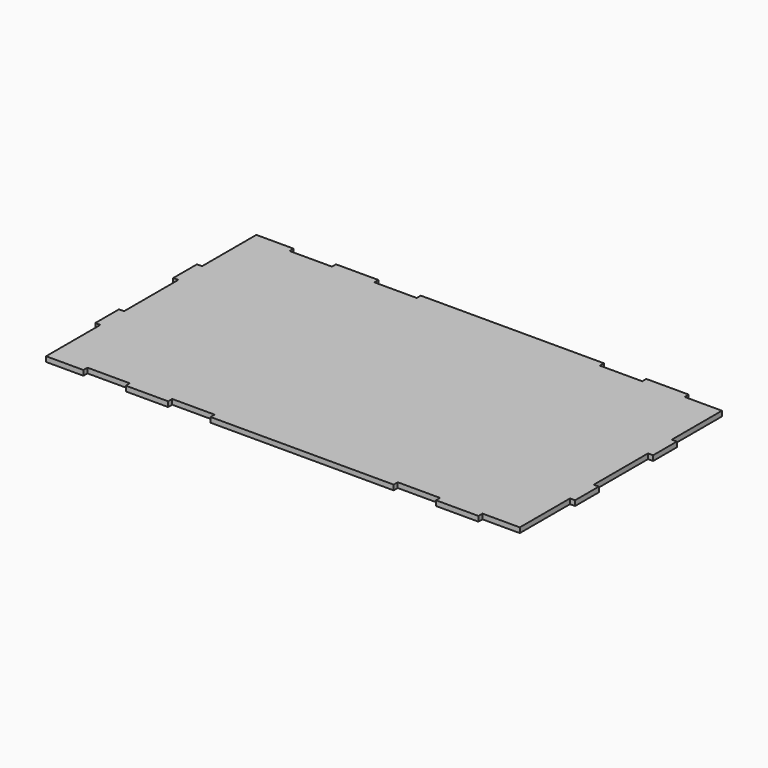
from build123d import *

# Parameters (mm, degrees)
RECTANGLE134_W                               = 40
RECTANGLE134_H                               = 3
EXTRUDE175_DEPTH                             = 3
RECTANGLE135_W                               = 40
RECTANGLE135_H                               = 3
EXTRUDE176_DEPTH                             = 3
RECTANGLE133_W                               = 40
RECTANGLE133_H                               = 3
EXTRUDE174_DEPTH                             = 3
RECTANGLE128_AS_DRAWN_W                      = 25
RECTANGLE128_AS_DRAWN_H                      = 3
EXTRUDE161_DEPTH                             = 3
EXTRUDE161_ONTO_RECTANGLE128_ROLL_ANGLE      = -90
EXTRUDE161_ONTO_RECTANGLE128_PLACEMENT_ANGLE = 180
RECTANGLE129_AS_DRAWN_W                      = 25
RECTANGLE129_AS_DRAWN_H                      = 3
EXTRUDE159_DEPTH                             = 3
EXTRUDE159_ONTO_RECTANGLE129_ROLL_ANGLE      = -90
EXTRUDE159_ONTO_RECTANGLE129_PLACEMENT_ANGLE = 180
RECTANGLE127_AS_DRAWN_W                      = 25
RECTANGLE127_AS_DRAWN_H                      = 3
EXTRUDE151_DEPTH                             = 3
EXTRUDE151_ONTO_RECTANGLE127_ROLL_ANGLE      = -90
EXTRUDE151_ONTO_RECTANGLE127_PLACEMENT_ANGLE = 180
EXTRUDE154_DEPTH                             = 3
EXTRUDE154_ONTO_RECTANGLE129_ROLL_ANGLE      = -90
EXTRUDE154_ONTO_RECTANGLE129_PLACEMENT_ANGLE = 180
BOX036_W                                     = 283
BOX036_H                                     = 155
BOX036_DEPTH                                 = 3


with BuildPart() as extrude175:
    # Rectangle134 → Extrude175 (new body)
    with BuildSketch(Plane(origin=(114, 38, -112), x_dir=(0, 1, 0), z_dir=(1, 0, 0))):
        with Locations((20, -1.5)):
            Rectangle(RECTANGLE134_W, RECTANGLE134_H)
    extrude(amount=EXTRUDE175_DEPTH)


with BuildPart() as extrude176:
    # Rectangle135 → Extrude176 (new body)
    with BuildSketch(Plane(origin=(114, -19.5, -112), x_dir=(0, 1, 0), z_dir=(1, 0, 0))):
        with Locations((20, -1.5)):
            Rectangle(RECTANGLE135_W, RECTANGLE135_H)
    extrude(amount=EXTRUDE176_DEPTH)


with BuildPart() as extrude174:
    # Rectangle133 → Extrude174 (new body)
    with BuildSketch(Plane(origin=(114, -77, -112), x_dir=(0, 1, 0), z_dir=(1, 0, 0))):
        with Locations((20, -1.5)):
            Rectangle(RECTANGLE133_W, RECTANGLE133_H)
    extrude(amount=EXTRUDE174_DEPTH)


with BuildPart() as fusion064047:
    # Fusion064047 base: copy of Extrude174
    add(extrude174.part)

    # Fusion064047: union Extrude175, Extrude176
    add(extrude175.part)
    add(extrude176.part)


with BuildPart() as fusion064047_1:
    # Fusion064047 placement: moved
    add(fusion064047.part.moved(Location((-283, 0, 0))))


with BuildPart() as fusion064041:
    # Fusion064041 base: copy of Extrude174
    add(extrude174.part)

    # Fusion064041: union Extrude175, Extrude176
    add(extrude175.part)
    add(extrude176.part)


with BuildPart() as fusion064041_1:
    # Fusion064041 placement: moved
    add(fusion064041.part.moved(Location((-3, 0, 0))))


with BuildPart() as extrude161:
    # Rectangle128 as drawn → Extrude161 (new)
    with BuildSketch(Plane.XY):
        with Locations((12.5, 1.5)):
            Rectangle(RECTANGLE128_AS_DRAWN_W, RECTANGLE128_AS_DRAWN_H)
    extrude(amount=-EXTRUDE161_DEPTH)


with BuildPart() as extrude161_1:
    # Extrude161 onto Rectangle128 roll: moved
    add(extrude161.part.rotate(Axis((0, 0, 0), (1, 0, 0)), EXTRUDE161_ONTO_RECTANGLE128_ROLL_ANGLE))


with BuildPart() as extrude161_2:
    # Extrude161 onto Rectangle128 placement: moved
    add(extrude161_1.part.moved(Location((89, -77, -70))).rotate(Axis((89, -77, -70), (0, 0, 1)), EXTRUDE161_ONTO_RECTANGLE128_PLACEMENT_ANGLE))


with BuildPart() as extrude161_3:
    # Extrude161 placement: moved
    add(extrude161_2.part.moved(Location((-208, 0, -42))))


with BuildPart() as extrude159:
    # Rectangle129 as drawn → Extrude159 (new)
    with BuildSketch(Plane.XY):
        with Locations((12.5, 1.5)):
            Rectangle(RECTANGLE129_AS_DRAWN_W, RECTANGLE129_AS_DRAWN_H)
    extrude(amount=-EXTRUDE159_DEPTH)


with BuildPart() as extrude159_1:
    # Extrude159 onto Rectangle129 roll: moved
    add(extrude159.part.rotate(Axis((0, 0, 0), (1, 0, 0)), EXTRUDE159_ONTO_RECTANGLE129_ROLL_ANGLE))


with BuildPart() as extrude159_2:
    # Extrude159 onto Rectangle129 placement: moved
    add(extrude159_1.part.moved(Location((64, -77, -70))).rotate(Axis((64, -77, -70), (0, 0, 1)), EXTRUDE159_ONTO_RECTANGLE129_PLACEMENT_ANGLE))


with BuildPart() as extrude159_3:
    # Extrude159 placement: moved
    add(extrude159_2.part.moved(Location((-133, 0, -42))))


with BuildPart() as fusion064034:
    # Fusion064034 base: copy of Extrude159
    add(extrude159_3.part)

    # Fusion064034: union Extrude161
    add(extrude161_3.part)


with BuildPart() as fusion064034_1:
    # Fusion064034 placement: moved
    add(fusion064034.part.moved(Location((0, 152, 0))))


with BuildPart() as extrude151:
    # Rectangle127 as drawn → Extrude151 (new)
    with BuildSketch(Plane.XY):
        with Locations((12.5, 1.5)):
            Rectangle(RECTANGLE127_AS_DRAWN_W, RECTANGLE127_AS_DRAWN_H)
    extrude(amount=-EXTRUDE151_DEPTH)


with BuildPart() as extrude151_1:
    # Extrude151 onto Rectangle127 roll: moved
    add(extrude151.part.rotate(Axis((0, 0, 0), (1, 0, 0)), EXTRUDE151_ONTO_RECTANGLE127_ROLL_ANGLE))


with BuildPart() as extrude151_2:
    # Extrude151 onto Rectangle127 placement: moved
    add(extrude151_1.part.moved(Location((114, -77, -70))).rotate(Axis((114, -77, -70), (0, 0, 1)), EXTRUDE151_ONTO_RECTANGLE127_PLACEMENT_ANGLE))


with BuildPart() as extrude151_3:
    # Extrude151 placement: moved
    add(extrude151_2.part.moved(Location((0, 0, -42))))


with BuildPart() as extrude154:
    # Rectangle129 as drawn → Extrude154 (new)
    with BuildSketch(Plane.XY):
        with Locations((12.5, 1.5)):
            Rectangle(RECTANGLE129_AS_DRAWN_W, RECTANGLE129_AS_DRAWN_H)
    extrude(amount=-EXTRUDE154_DEPTH)


with BuildPart() as extrude154_1:
    # Extrude154 onto Rectangle129 roll: moved
    add(extrude154.part.rotate(Axis((0, 0, 0), (1, 0, 0)), EXTRUDE154_ONTO_RECTANGLE129_ROLL_ANGLE))


with BuildPart() as extrude154_2:
    # Extrude154 onto Rectangle129 placement: moved
    add(extrude154_1.part.moved(Location((64, -77, -70))).rotate(Axis((64, -77, -70), (0, 0, 1)), EXTRUDE154_ONTO_RECTANGLE129_PLACEMENT_ANGLE))


with BuildPart() as extrude154_3:
    # Extrude154 placement: moved
    add(extrude154_2.part.moved(Location((0, 0, -42))))


with BuildPart() as fusion064040:
    # Fusion064033 base: copy of Extrude154
    add(extrude154_3.part)

    # Fusion064033: union Extrude151
    add(extrude151_3.part)


with BuildPart() as fusion064040_1:
    # Fusion064033 placement: moved
    add(fusion064040.part.moved(Location((0, 152, 0))))

    # Fusion064040: union Fusion064034
    add(fusion064034_1.part)


with BuildPart() as fusion064032:
    # Fusion064032 base: copy of Extrude159
    add(extrude159_3.part)

    # Fusion064032: union Extrude161
    add(extrude161_3.part)


with BuildPart() as fusion064029:
    # Fusion064029 base: copy of Extrude154
    add(extrude154_3.part)

    # Fusion064029: union Extrude151
    add(extrude151_3.part)


with BuildPart() as base_lower003:
    # Box036 → Box036 (new body)
    with BuildSketch(Plane(origin=(-169, -77, -115), x_dir=(1, 0, 0), z_dir=(0, 0, 1))):
        with Locations((141.5, 77.5)):
            Rectangle(BOX036_W, BOX036_H)
    extrude(amount=BOX036_DEPTH)

    # Cut035018: cut Fusion064029
    add(fusion064029.part, mode=Mode.SUBTRACT)

    # Cut035022: cut Fusion064032
    add(fusion064032.part, mode=Mode.SUBTRACT)

    # Cut035027: cut Fusion064040
    add(fusion064040_1.part, mode=Mode.SUBTRACT)

    # Cut035029: cut Fusion064041
    add(fusion064041_1.part, mode=Mode.SUBTRACT)

    # Cut035033: cut Fusion064047
    add(fusion064047_1.part, mode=Mode.SUBTRACT)


with BuildPart() as base_lower003_1:
    # Cut035033 placement: moved
    add(base_lower003.part.moved(Location((0, 0, -4))))


solid = base_lower003_1.part
